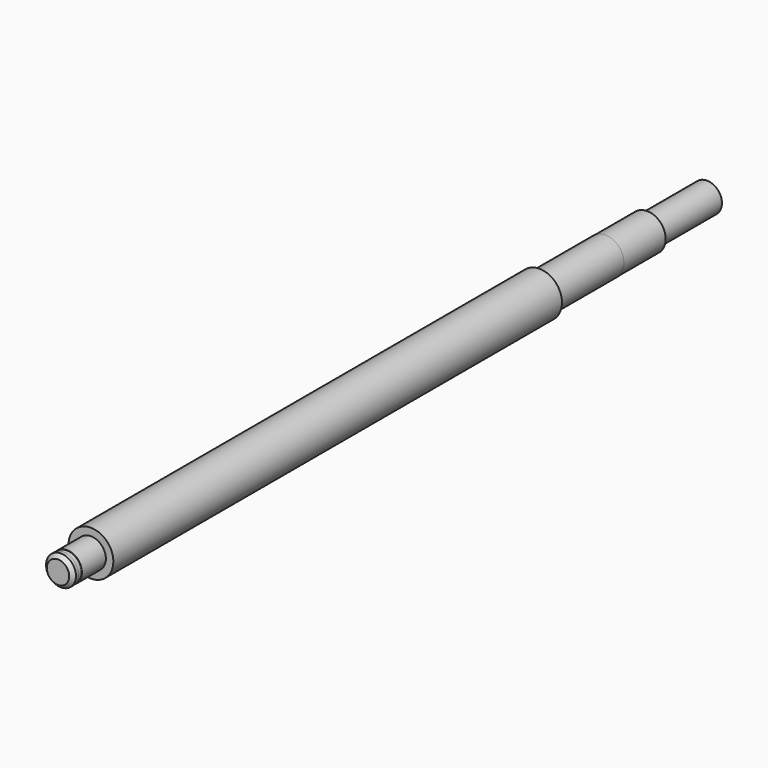
from build123d import *

# Parameters (mm, degrees)
F0_R      = 6
F1_DEPTH  = 150
F2_R      = 5
F3_DEPTH  = 22
F4_R      = 4.95
F5_DEPTH  = 14
F6_R      = 4
F7_DEPTH  = 20
F8_R      = 4
F9_DEPTH  = 8
F10_R     = 3.9
F11_DEPTH = 1.15
F12_R     = 4
F13_DEPTH = 1.85
F14_SIZE  = 1


with BuildPart() as f1:
    # F0 (on Front) → F1 (new body)
    with BuildSketch(Plane.XZ):
        Circle(F0_R)
    extrude(amount=F1_DEPTH)

    # F2 (on face) → F3 (join)
    with BuildSketch(Plane(origin=(0, 0, 0), x_dir=(-1, 0, 0), z_dir=(0, 1, 0))):
        Circle(F2_R)
    extrude(amount=F3_DEPTH)

    # F4 (on face) → F5 (join)
    with BuildSketch(Plane(origin=(0, 22, 0), x_dir=(-1, 0, 0), z_dir=(0, 1, 0))):
        Circle(F4_R)
    extrude(amount=F5_DEPTH)

    # F6 (on face) → F7 (join)
    with BuildSketch(Plane(origin=(0, 36, 0), x_dir=(-1, 0, 0), z_dir=(0, 1, 0))):
        Circle(F6_R)
    extrude(amount=F7_DEPTH)

    # F8 (on face) → F9 (join)
    with BuildSketch(Plane.XZ.offset(150)):
        Circle(F8_R)
    extrude(amount=F9_DEPTH)

    # F10 (on face) → F11 (join)
    with BuildSketch(Plane.XZ.offset(158)):
        Circle(F10_R)
    extrude(amount=F11_DEPTH)

    # F12 (on face) → F13 (join)
    with BuildSketch(Plane.XZ.offset(159.15)):
        Circle(F12_R)
    extrude(amount=F13_DEPTH)

    # F14
    f14_edges = [f1.edges().sort_by_distance(p)[0] for p in [
        (-4, -161, 0),
    ]]
    chamfer(f14_edges, length=F14_SIZE)


solid = f1.part
